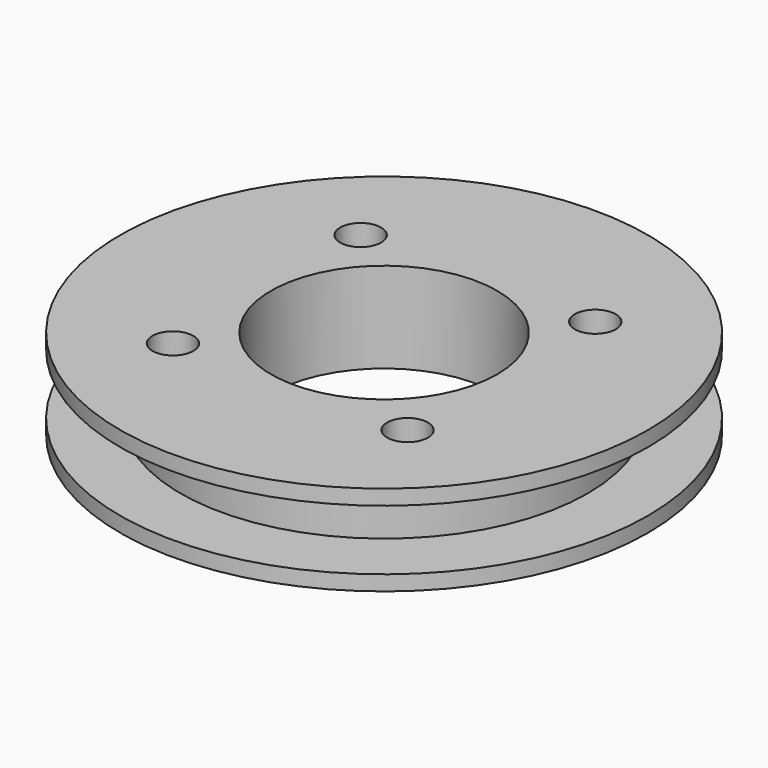
from build123d import *

# Parameters (mm, degrees)
F0_R     = 27.78125
F0_R_2   = 2.15265
F0_R_3   = 11.90625
F1_DEPTH = 9.525
F2_W     = 21.43125
F2_H     = 6.35


with BuildPart() as f1:
    # F0 (on Top) → F1 (new body)
    with BuildSketch(Plane.XY):
        Circle(F0_R)
        with Locations((-12.347852, -12.347852)):
            Circle(F0_R_2, mode=Mode.SUBTRACT)
        with Locations((12.347852, -12.347852)):
            Circle(F0_R_2, mode=Mode.SUBTRACT)
        with Locations((-12.347852, 12.347852)):
            Circle(F0_R_2, mode=Mode.SUBTRACT)
        Circle(F0_R_3, mode=Mode.SUBTRACT)
        with Locations((12.347852, 12.347852)):
            Circle(F0_R_2, mode=Mode.SUBTRACT)
    extrude(amount=F1_DEPTH)

    # F2 (on Front) → F3 (revolve, cut)
    with BuildSketch(Plane.XZ):
        with Locations((-32.146875, 4.7625)):
            Rectangle(F2_W, F2_H)
    revolve(axis=Axis((0, 0, 0), (0, 0, -1)), mode=Mode.SUBTRACT)


solid = f1.part
